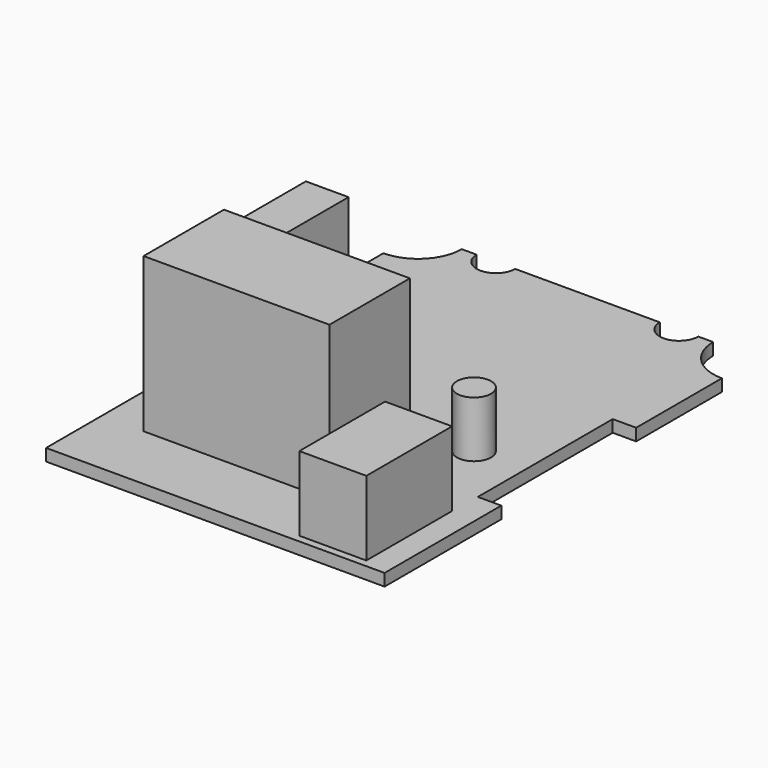
from build123d import *

# Parameters (mm, degrees)
F1_DEPTH = 1.44
F2_W     = 22.2
F2_H     = 12
F3_DEPTH = 18.42
F2_W_2   = 5.1
F2_H_2   = 9.9
F4_DEPTH = 16.2
F2_W_3   = 8
F2_H_3   = 12.8
F5_DEPTH = 8.9
F2_R     = 2.038774
F6_DEPTH = 6.7


with BuildPart() as f1:
    # F0 (on Top) → F1 (new body)
    with BuildSketch(Plane.XY):
        with BuildLine():
            Line((-20.21, -27.775), (20.21, -27.775))
            Line((20.21, -27.775), (20.21, -10.355))
            Line((20.21, -10.355), (17.41, -10.355))
            Line((17.41, -10.355), (17.41, 9.775))
            Line((17.41, 9.775), (20.21, 9.775))
            Line((20.21, 9.775), (20.21, 22.575))
            ThreePointArc((20.21, 22.575), (16.533045, 24.098045), (15.01, 27.775))
            Line((15.01, 27.775), (13.23, 27.775))
            ThreePointArc((13.23, 27.775), (10.93, 25.475), (8.63, 27.775))
            Line((8.63, 27.775), (-8.63, 27.775))
            ThreePointArc((-8.63, 27.775), (-10.93, 25.475), (-13.23, 27.775))
            Line((-13.23, 27.775), (-15.01, 27.775))
            ThreePointArc((-15.01, 27.775), (-16.533045, 24.098045), (-20.21, 22.575))
            Line((-20.21, 22.575), (-20.21, 9.775))
            Line((-20.21, 9.775), (-17.41, 9.775))
            Line((-17.41, 9.775), (-17.41, -10.355))
            Line((-17.41, -10.355), (-20.21, -10.355))
            Line((-20.21, -10.355), (-20.21, -27.775))
        make_face()
    extrude(amount=F1_DEPTH)

    # F2 (on face) → F3 (join)
    with BuildSketch(Plane.XY.offset(1.44)):
        with Locations((-4.11, -13.475)):
            Rectangle(F2_W, F2_H)
    extrude(amount=F3_DEPTH)

    # F2 (on face) → F4 (join)
    with BuildSketch(Plane.XY.offset(1.44)):
        with Locations((-12.93, 0.135)):
            Rectangle(F2_W_2, F2_H_2)
    extrude(amount=F4_DEPTH)

    # F2 (on face) → F5 (join)
    with BuildSketch(Plane.XY.offset(1.44)):
        with Locations((13.31, -20.475)):
            Rectangle(F2_W_3, F2_H_3)
    extrude(amount=F5_DEPTH)

    # F2 (on face) → F6 (join)
    with BuildSketch(Plane.XY.offset(1.44)):
        with Locations((11.359598, -3.366856)):
            Circle(F2_R)
    extrude(amount=F6_DEPTH)


solid = f1.part
